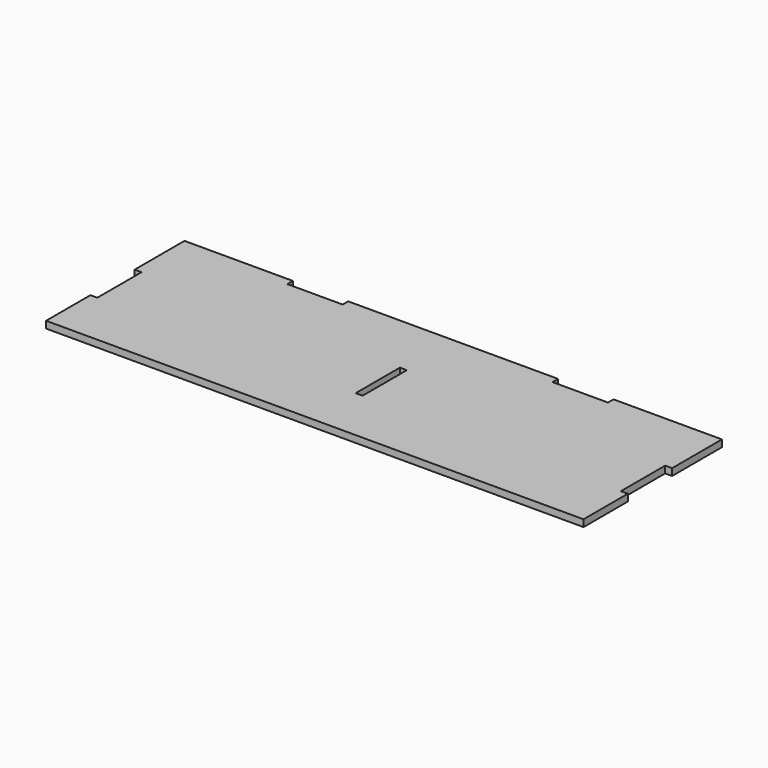
from build123d import *

# Parameters (mm, degrees)
F0_W     = 19.05
F0_H     = 152.4
F1_DEPTH = 19.05


with BuildPart() as f1:
    # F0 (on Top) → F1 (new body)
    with BuildSketch(Plane.XY):
        Polygon((-739.775, -323.85), (-739.775, -476.25), (739.775, -476.25), (739.775, -323.85), (720.725, -323.85), (720.725, -171.45), (739.775, -171.45), (739.775, 0), (441.325, 0), (441.325, -19.05), (288.925, -19.05), (288.925, 0), (-288.925, 0), (-288.925, -19.05), (-441.325, -19.05), (-441.325, 0), (-739.775, 0), (-739.775, -171.45), (-720.725, -171.45), (-720.725, -323.85), align=None)
        with Locations((0, -247.65)):
            Rectangle(F0_W, F0_H, mode=Mode.SUBTRACT)
    extrude(amount=F1_DEPTH)


solid = f1.part
